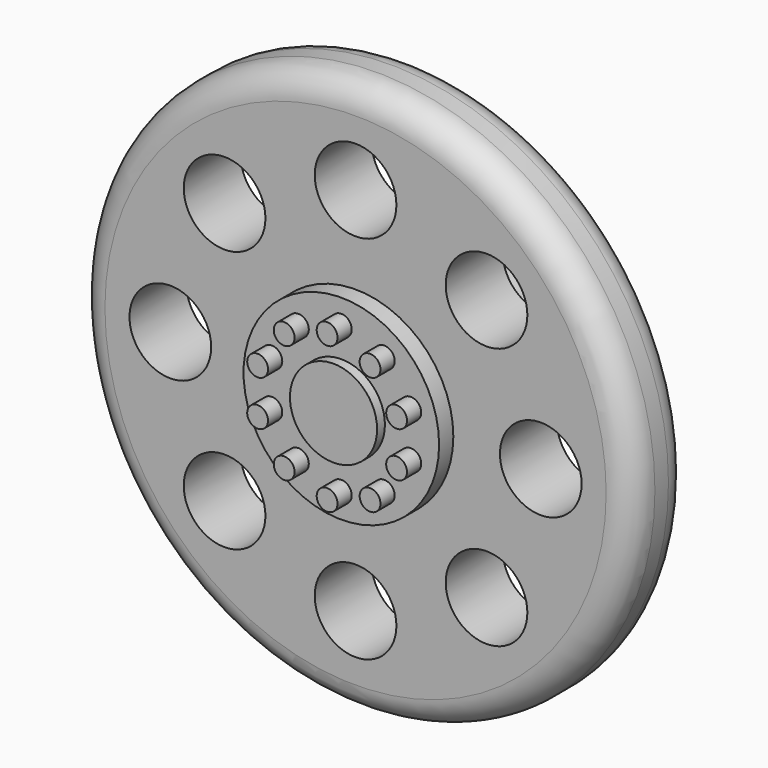
from build123d import *

# Parameters (mm, degrees)
F0_R      = 15.621
F1_DEPTH  = 4
F2_R      = 2.4511
F3_DEPTH  = 1.55
F4_R      = 2.9972
F5_DEPTH  = 9.1
F6_R      = 1.555
F7_DEPTH  = 6
F9_R      = 5.5
F10_DEPTH = 1
F11_R     = 1.524
F12_R     = 1.524
F13_R     = 0.58563
F14_DEPTH = 1
F15_R     = 2.297006
F16_DEPTH = 25.4


with BuildPart() as f1:
    # F0 (on Front) → F1 (new body)
    with BuildSketch(Plane.XZ):
        Circle(F0_R)
    extrude(amount=F1_DEPTH)

    # F2 (on face) → F3 (join)
    with BuildSketch(Plane.XZ.offset(4)):
        Circle(F2_R)
    extrude(amount=F3_DEPTH)

    # F4 (on face) → F5 (join)
    with BuildSketch(Plane.XZ):
        Circle(F4_R)
    extrude(amount=-F5_DEPTH)

    # F6 (on face) → F7 (cut)
    with BuildSketch(Plane(origin=(0, 9.1, 0), x_dir=(-1, 0, 0), z_dir=(0, 1, 0))):
        Circle(F6_R)
    extrude(amount=-F7_DEPTH, mode=Mode.SUBTRACT)

    # F9 (on face) → F10 (join)
    with BuildSketch(Plane.XZ.offset(4)):
        Circle(F9_R)
    extrude(amount=F10_DEPTH)

    # F11
    f11_edges = [f1.edges().sort_by_distance(p)[0] for p in [
        (-15.621, -4, 0),
    ]]
    fillet(f11_edges, radius=F11_R)

    # F12
    f12_edges = [f1.edges().sort_by_distance(p)[0] for p in [
        (-15.621, 0, 0),
    ]]
    fillet(f12_edges, radius=F12_R)

    # F13 (on face) → F14 (join)
    with BuildSketch(Plane.XZ.offset(5)):
        with Locations((3.908391, -1.269913)):
            Circle(F13_R)
        with Locations((0, -4.109526)):
            Circle(F13_R)
        with Locations((-3.908391, -1.269913)):
            Circle(F13_R)
        with Locations((-2.415519, -3.324676)):
            Circle(F13_R)
        with Locations((-3.908391, 1.269913)):
            Circle(F13_R)
        with Locations((-2.415519, 3.324676)):
            Circle(F13_R)
        with Locations((0, 4.109526)):
            Circle(F13_R)
        with Locations((2.415519, 3.324676)):
            Circle(F13_R)
        with Locations((3.908391, 1.269913)):
            Circle(F13_R)
        with Locations((2.415519, -3.324676)):
            Circle(F13_R)
    extrude(amount=F14_DEPTH)

    # F15 (on face) → F16 (cut)
    with BuildSketch(Plane.XZ.offset(4)):
        with Locations((7.366795, 7.366795)):
            Circle(F15_R)
        with Locations((0, 10.418221)):
            Circle(F15_R)
        with Locations((-7.366795, 7.366795)):
            Circle(F15_R)
        with Locations((-10.418221, 0)):
            Circle(F15_R)
        with Locations((-7.366795, -7.366795)):
            Circle(F15_R)
        with Locations((0, -10.418221)):
            Circle(F15_R)
        with Locations((7.366795, -7.366795)):
            Circle(F15_R)
        with Locations((10.418221, 0)):
            Circle(F15_R)
    extrude(amount=-F16_DEPTH, mode=Mode.SUBTRACT)


solid = f1.part
